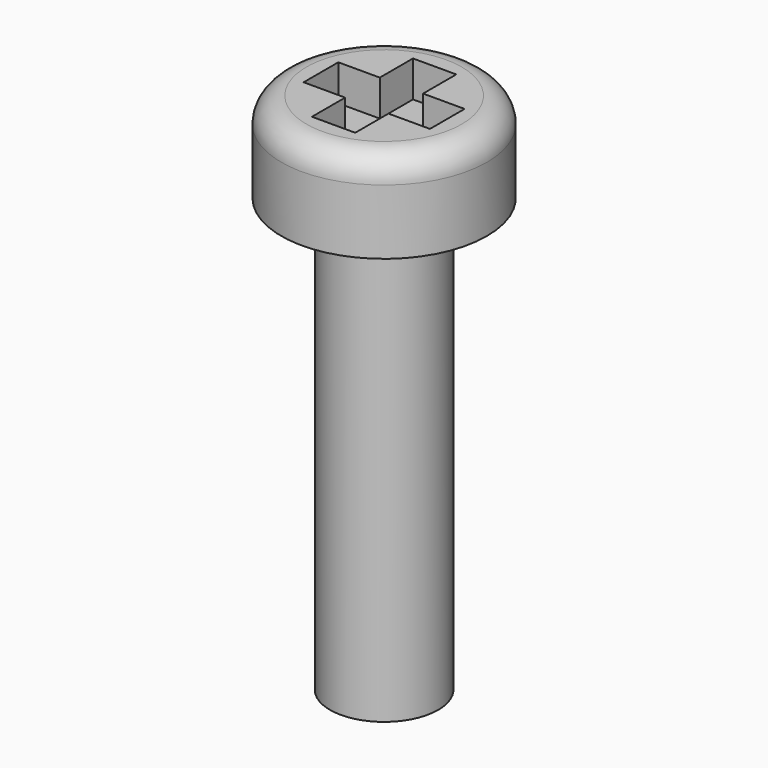
from build123d import *

# Parameters (mm, degrees)
SKETCH_R     = 2.85
PAD_DEPTH    = 2.5
POCKET_DEPTH = 1
FILLET_R     = 0.7
SKETCH002_R  = 1.5
PAD001_DEPTH = 12


with BuildPart() as part:
    # Sketch → Pad (new body)
    with BuildSketch(Plane.XY):
        Circle(SKETCH_R)
    extrude(amount=PAD_DEPTH)

    # Sketch001 (on Face3 of Pad) → Pocket (cut)
    with BuildSketch(Plane.XY.offset(2.5)):
        Polygon((-0.6, 1.75), (0.6, 1.75), (0.6, 0.6), (1.75, 0.6), (1.75, -0.6), (0.6, -0.6), (0.6, -1.75), (-0.6, -1.75), (-0.6, -0.6), (-1.75, -0.6), (-1.75, 0.6), (-0.6, 0.6), align=None)
    extrude(amount=-POCKET_DEPTH, mode=Mode.SUBTRACT)

    # Fillet
    fillet_edges = [part.edges().sort_by_distance(p)[0] for p in [
        (-2.85, 0, 2.5),
    ]]
    fillet(fillet_edges, radius=FILLET_R)

    # Sketch002 (on Face3 of Fillet) → Pad001 (join)
    with BuildSketch(Plane(origin=(0, 0, 0), x_dir=(1, 0, 0), z_dir=(0, 0, -1))):
        Circle(SKETCH002_R)
    extrude(amount=PAD001_DEPTH)


solid = part.part
